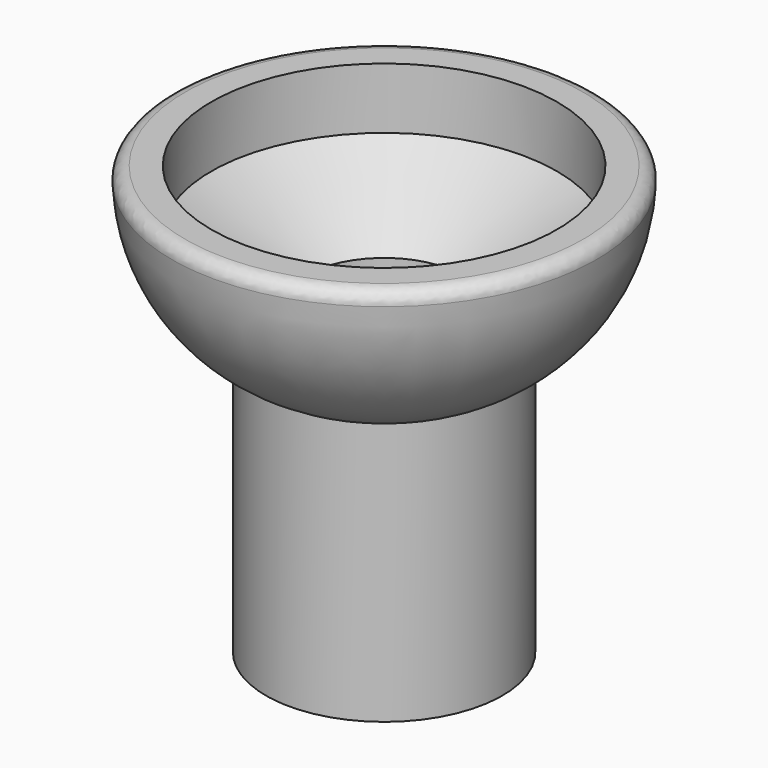
from build123d import *

# Parameters (mm, degrees)
F2_R = 1


with BuildPart() as f1:
    # F0 (on Right) → F1 (revolve)
    with BuildSketch(Plane.YZ):
        with BuildLine():
            Line((6, 20), (6, 0))
            Line((6, 0), (9, 0))
            Line((9, 0), (9, 20))
            ThreePointArc((9, 20), (14.371488, 25.2855), (16.16702, 32.604342))
            Line((16.16702, 32.604342), (13.16702, 32.604342))
            Line((13.16702, 32.604342), (13.16702, 27.952527))
            Line((13.16702, 27.952527), (6, 23.300707))
            Line((6, 23.300707), (6, 20))
        make_face()
    revolve(axis=Axis((0, 0, 5.74038), (0, 0, 1)))

    # F2
    f2_edges = [f1.edges().sort_by_distance(p)[0] for p in [
        (0, -16.16702, 32.604342),
    ]]
    fillet(f2_edges, radius=F2_R)


solid = f1.part
